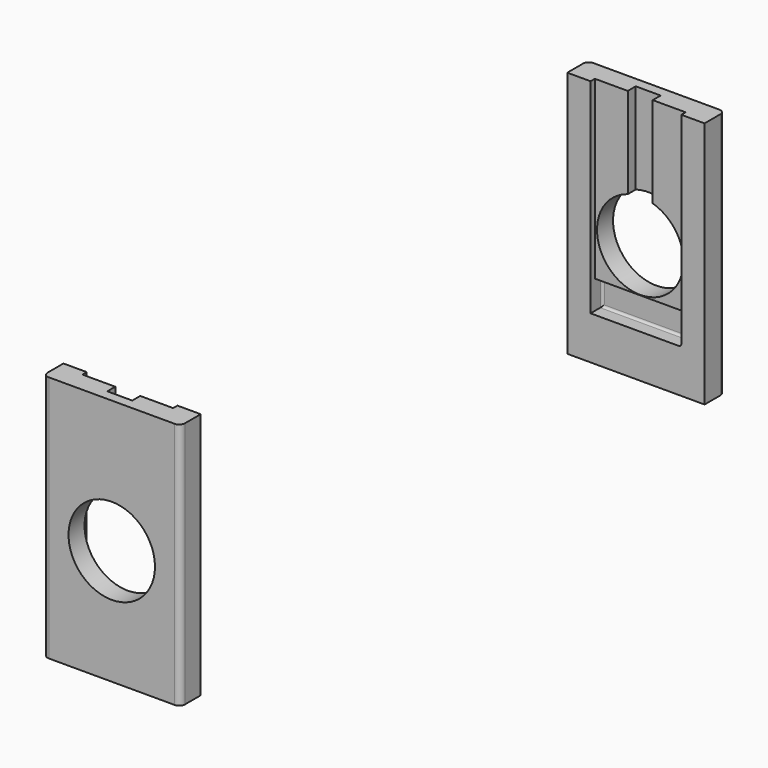
from build123d import *

# Parameters (mm, degrees)
F0_W      = 121
F0_H      = 218.2
F0_R      = 38.1
F1_DEPTH  = 22.4
F2_W      = 80
F2_H      = 180.1
F3_DEPTH  = 4.763
F4_W      = 80
F4_H      = 25
F5_DEPTH  = 12.7
F6_R      = 5
F7_R      = 2
F10_W     = 22
F10_H     = 8.78
F11_DEPTH = 100


with BuildPart() as f1:
    # F0 (on Front) → F1 (new body)
    with BuildSketch(Plane.XZ):
        Rectangle(F0_W, F0_H)
        with Locations((0, -7.5)):
            Circle(F0_R, mode=Mode.SUBTRACT)
    extrude(amount=F1_DEPTH)

    # F2 (on face) → F3 (cut)
    with BuildSketch(Plane.XZ.offset(22.4)):
        with Locations((0, 19.05)):
            Rectangle(F2_W, F2_H)
    extrude(amount=-F3_DEPTH, mode=Mode.SUBTRACT)

    # F4 (on face) → F5 (cut)
    with BuildSketch(Plane.XZ.offset(22.4)):
        with Locations((0, -58.5)):
            Rectangle(F4_W, F4_H)
    extrude(amount=-F5_DEPTH, mode=Mode.SUBTRACT)

    # F6
    f6_edges = [f1.edges().sort_by_distance(p)[0] for p in [
        (-60.5, 0, 0),
        (60.5, 0, 0),
    ]]
    fillet(f6_edges, radius=F6_R)

    # F7
    f7_edges = [f1.edges().sort_by_distance(p)[0] for p in [
        (0, -9.7, -71),
        (40, -16.05, -71),
        (40, -9.7, -58.5),
        (-40, -9.7, -58.5),
        (0, -9.7, -46),
    ]]
    fillet(f7_edges, radius=F7_R)

    # F10 (on face) → F11 (cut)
    with BuildSketch(Plane.XY.offset(109.1)):
        with Locations((0, -13.247)):
            Rectangle(F10_W, F10_H)
    extrude(amount=-F11_DEPTH, mode=Mode.SUBTRACT)


with BuildPart() as f9_1:
    # F9: instance of F1
    add(f1.part.mirror(Plane.XZ.offset(300)))


with BuildPart() as f13_1:
    # F13: instance of F1
    add(f1.part.mirror(Plane.XZ.offset(300)))


solid = Compound([f1.part, f13_1.part])
